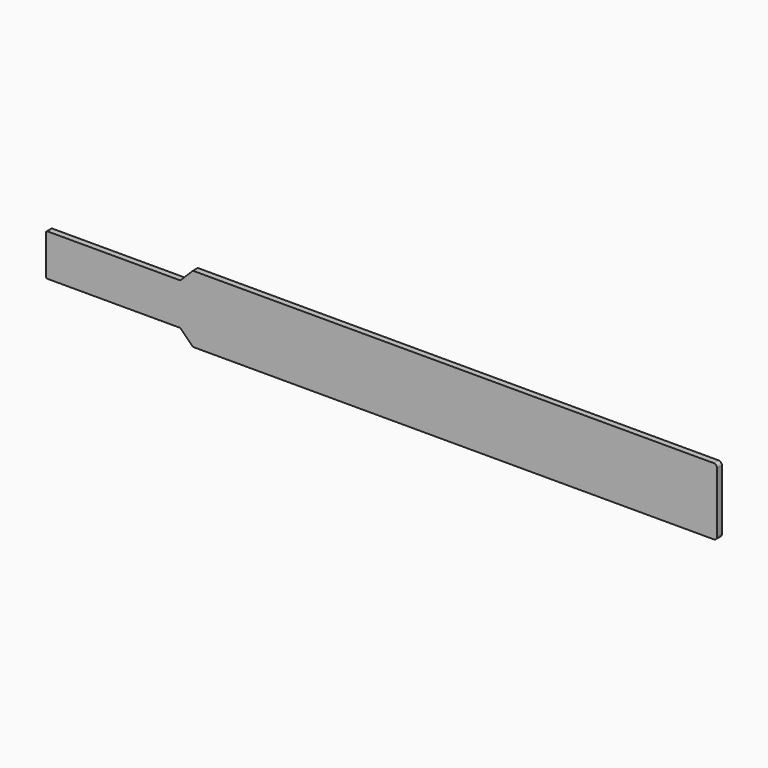
from build123d import *

# Parameters (mm, degrees)
F1_DEPTH = 0.9
F2_R     = 0.2
F3_R     = 0.5


with BuildPart() as f1:
    # F0 (on Front) → F1 (new body)
    with BuildSketch(Plane.XZ):
        Polygon((-20, 3.115), (-20, 0), (-20, -3.115), (0, -3.115), (1.885, -5), (80, -5), (80, 0), (80, 5), (1.885, 5), (0, 3.115), align=None)
    extrude(amount=F1_DEPTH)

    # F2
    f2_edges = [f1.edges().sort_by_distance(p)[0] for p in [
        (-20, -0.45, -3.115),
        (-20, -0.45, 3.115),
    ]]
    fillet(f2_edges, radius=F2_R)

    # F3
    f3_edges = [f1.edges().sort_by_distance(p)[0] for p in [
        (80, -0.45, -5),
        (80, -0.45, 5),
    ]]
    fillet(f3_edges, radius=F3_R)


solid = f1.part
